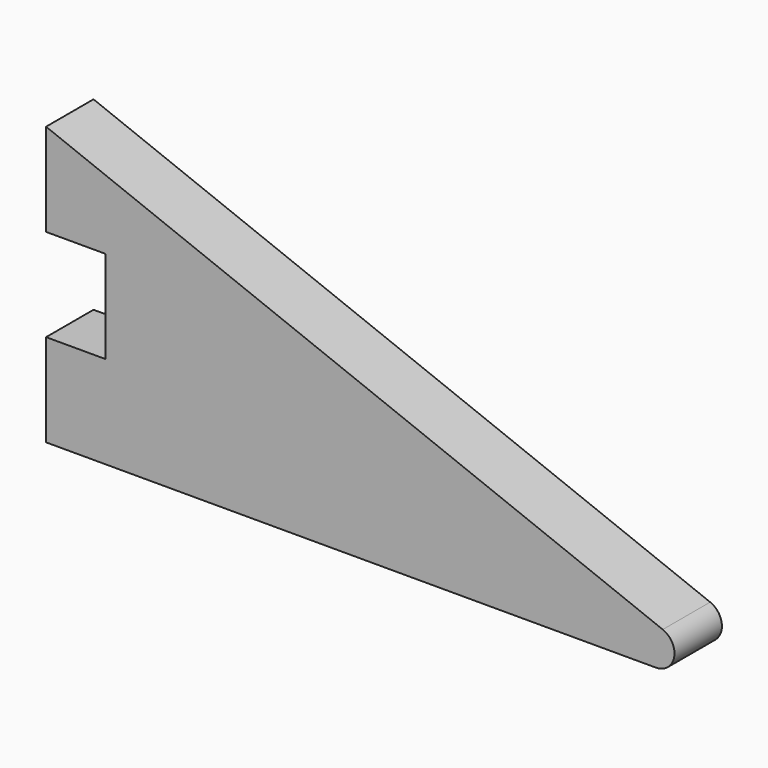
from build123d import *

# Parameters (mm, degrees)
F1_DEPTH = 3.2
F2_R     = 1


with BuildPart() as f1:
    # F0 (on Front) → F1 (new body)
    with BuildSketch(Plane.XZ):
        Polygon((35, -15), (-3.2, 0), (-3.2, -5), (0, -5), (0, -10), (-3.2, -10), (-3.2, -15), (0, -15), align=None)
    extrude(amount=F1_DEPTH)

    # F2
    f2_edges = [f1.edges().sort_by_distance(p)[0] for p in [
        (35, -1.6, -15),
    ]]
    fillet(f2_edges, radius=F2_R)


solid = f1.part
